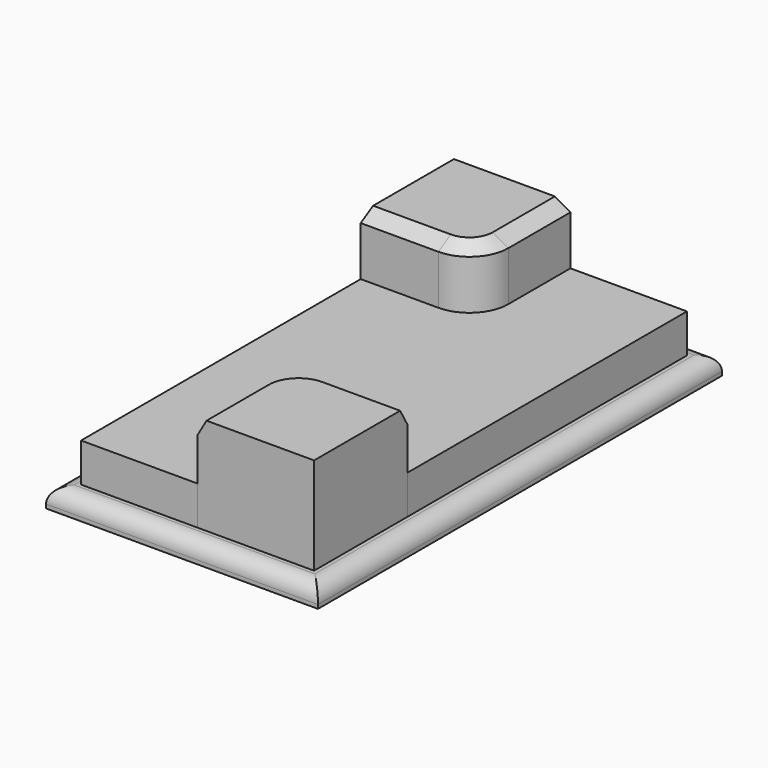
from build123d import *

# Parameters (mm, degrees)
F1_DEPTH = 38.1
F2_DEPTH = 19.05
F0_W     = 88.9
F0_H     = 165.1
F3_DEPTH = 6.35
F4_SIZE2 = 2.9329393675
F4_SIZE  = 5.08
F5_SIZE2 = 2.9329393675
F5_SIZE  = 5.08
F6_R     = 5.08


with BuildPart() as f1:
    # F0 (on Top) → F1 (new body)
    with BuildSketch(Plane.XY):
        with BuildLine():
            Line((0, 45.7534222543), (0, 71.1534222543))
            Line((0, 71.1534222543), (-38.1, 71.1534222543))
            Line((-38.1, 71.1534222543), (-38.1, 33.0534222543))
            Line((-38.1, 33.0534222543), (-12.7, 33.0534222543))
            ThreePointArc((-12.7, 33.0534222543), (-3.7197438789, 36.7731661333), (0, 45.7534222543))
        make_face()
    extrude(amount=F1_DEPTH)

    # F5
    f5_edges = [f1.edges().sort_by_distance(p)[0] for p in [
        (-25.4, 33.053422, 38.1),
    ]]
    f5_side = f1.faces().sort_by_distance((-19.446042, 52.499464, 38.1))[0]
    chamfer(f5_edges, length=F5_SIZE, length2=F5_SIZE2, reference=f5_side)


with BuildPart() as f1b:
    # F0 (on Top) → F1, piece 2 (new body)
    with BuildSketch(Plane.XY):
        with BuildLine():
            Line((38.1, -81.2465777457), (38.1, -43.1465777457))
            Line((38.1, -43.1465777457), (12.7, -43.1465777457))
            ThreePointArc((12.7, -43.1465777457), (3.7197438789, -46.8663216246), (0, -55.8465777457))
            Line((0, -55.8465777457), (0, -81.2465777457))
            Line((0, -81.2465777457), (38.1, -81.2465777457))
        make_face()
    extrude(amount=F1_DEPTH)

    # F4
    f4_edges = [f1b.edges().sort_by_distance(p)[0] for p in [
        (0, -68.546578, 38.1),
    ]]
    f4_side = f1b.faces().sort_by_distance((0, -68.546578, 19.05))[0]
    chamfer(f4_edges, length=F4_SIZE, length2=F4_SIZE2, reference=f4_side)


with BuildPart() as f2:
    # F0 (on Top) → F2 (new body)
    with BuildSketch(Plane.XY):
        with BuildLine():
            Line((38.1, -43.1465777457), (38.1, 71.1534222543))
            Line((38.1, 71.1534222543), (0, 71.1534222543))
            Line((0, 71.1534222543), (0, 45.7534222543))
            ThreePointArc((0, 45.7534222543), (-3.7197438789, 36.7731661333), (-12.7, 33.0534222543))
            Line((-12.7, 33.0534222543), (-38.1, 33.0534222543))
            Line((-38.1, 33.0534222543), (-38.1, -81.2465777457))
            Line((-38.1, -81.2465777457), (0, -81.2465777457))
            Line((0, -81.2465777457), (0, -55.8465777457))
            ThreePointArc((0, -55.8465777457), (3.7197438789, -46.8663216246), (12.7, -43.1465777457))
            Line((12.7, -43.1465777457), (38.1, -43.1465777457))
        make_face()
    extrude(amount=F2_DEPTH)


with BuildPart() as f3:
    # F0 (on Top) → F3 (new body)
    with BuildSketch(Plane.XY):
        with Locations((0, -5.0465777457)):
            Rectangle(F0_W, F0_H)
        Polygon((0, 71.1534222543), (38.1, 71.1534222543), (38.1, -43.1465777457), (38.1, -81.2465777457), (0, -81.2465777457), (-38.1, -81.2465777457), (-38.1, 33.0534222543), (-38.1, 71.1534222543), align=None, mode=Mode.SUBTRACT)
    extrude(amount=F3_DEPTH)

    # F6
    f6_edges = [f3.edges().sort_by_distance(p)[0] for p in [
        (0, -87.596578, 6.35),
        (-44.45, -5.046578, 6.35),
        (44.45, -5.046578, 6.35),
        (0, 77.503422, 6.35),
    ]]
    fillet(f6_edges, radius=F6_R)


solid = Compound([f1.part, f1b.part, f2.part, f3.part])
